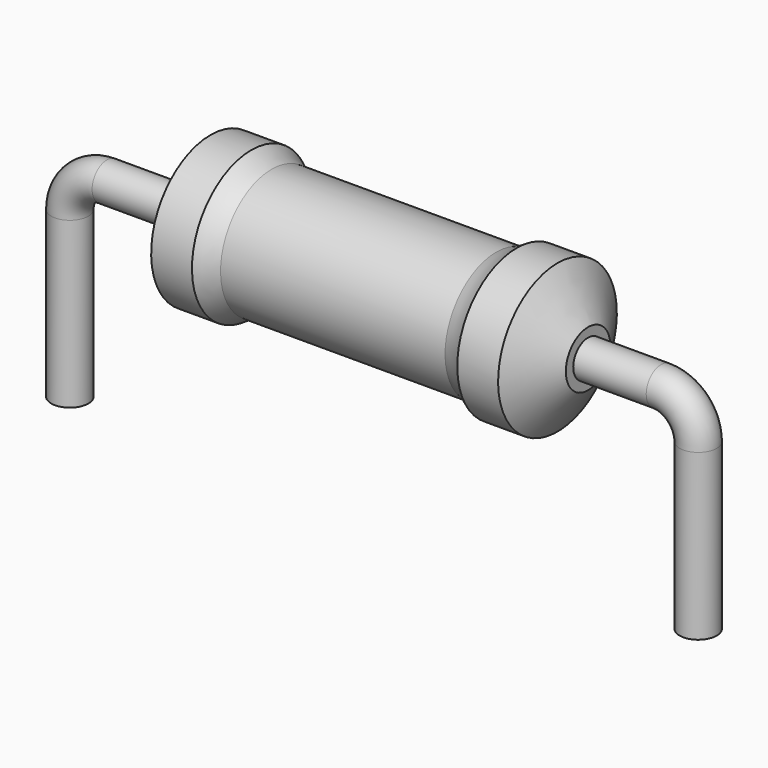
from build123d import *

# Parameters (mm, degrees)
SKETCH_R = 0.45


with BuildPart() as revolution:
    # Sketch002 → Revolution (revolve)
    with BuildSketch(Plane.XZ):
        with BuildLine():
            Line((3.4125, 3.7), (4.4025, 3.7))
            ThreePointArc((4.4025, 3.7), (4.639758, 3.555766), (4.8975, 3.4525))
            Line((4.8975, 3.4525), (10.3425, 3.4525))
            ThreePointArc((10.3425, 3.4525), (10.600242, 3.555766), (10.8375, 3.7))
            Line((10.8375, 3.7), (11.8275, 3.7))
            ThreePointArc((12.57, 2.575), (12.199927, 3.138277), (11.8275, 3.7))
            Line((12.57, 1.9), (12.57, 2.575))
            Line((2.67, 1.9), (12.57, 1.9))
            Line((2.67, 1.9), (2.67, 2.575))
            ThreePointArc((3.4125, 3.7), (3.040073, 3.138277), (2.67, 2.575))
        make_face()
    revolve(axis=Axis((2.67, 0, 1.9), (1, 0, 0)))


with BuildPart() as sweep_body:
    # Sweep: sweep along a path in Sketch001
    with BuildLine(Plane.XZ) as sweep_path:
        Line((0, -3), (0, 1))
        ThreePointArc((0, 1), (0.2636, 1.636392), (0.899988, 1.9))
        Line((0.899988, 1.9), (14.34, 1.9))
        ThreePointArc((14.34, 1.9), (14.976396, 1.636396), (15.24, 1))
        Line((15.24, 1), (15.24, -3))
    # Sketch → Sweep (sweep)
    with BuildSketch(Plane.XY.offset(-2)):
        Circle(SKETCH_R)
    sweep(path=sweep_path.line)


solid = Compound([revolution.part, sweep_body.part])
